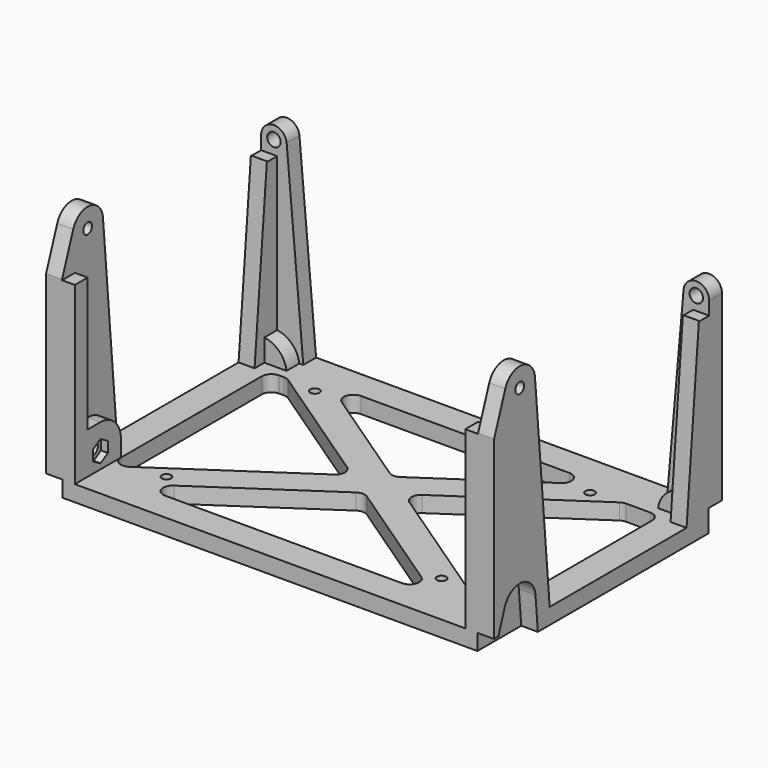
from build123d import *

# Parameters (mm, degrees)
SKETCH_W        = 110
SKETCH_H        = 84
PAD_DEPTH       = 5
SKETCH001_R     = 1.45
HOLE_DEPTH      = 5.001
SKETCH002_W     = 84
SKETCH002_H     = 5
PAD001_DEPTH    = 10
POCKET_DEPTH    = 5.001
SKETCH005_W     = 84
SKETCH005_H     = 5
PAD002_DEPTH    = 5
SKETCH006_W     = 140
SKETCH006_H     = 5
PAD003_DEPTH    = 5
SKETCH007_W     = 5
SKETCH007_H     = 5
PAD004_DEPTH    = 55
PAD005_DEPTH    = 5
SKETCH010_W     = 4
SKETCH010_H     = 55
PAD006_DEPTH    = 5
PAD007_DEPTH    = 4
POCKET001_DEPTH = 5.2
SKETCH012_R     = 1.7
HOLE001_DEPTH   = 504.950312
POCKET002_DEPTH = 2.15
SKETCH014_R     = 1.7
HOLE002_DEPTH   = 371.800312
PAD008_DEPTH    = 5
SKETCH016_R     = 2.1
POCKET003_DEPTH = 5
PAD009_DEPTH    = 5
PAD010_DEPTH    = 5
POCKET004_DEPTH = 5.2
SKETCH020_R     = 1.9
PAD011_DEPTH    = 2.5
SKETCH021_W     = 5
SKETCH021_H     = 4
SKETCH021_W_2   = 4
SKETCH021_H_2   = 5
POCKET005_DEPTH = 0.2


with BuildPart() as part:
    # Sketch → Pad (new body)
    with BuildSketch(Plane.XY):
        Rectangle(SKETCH_W, SKETCH_H)
    extrude(amount=PAD_DEPTH)

    # Sketch001 (on Face6 of Pad) → Hole (cut, through all)
    with BuildSketch(Plane.XY.offset(5)):
        with Locations((-46, 33)):
            Circle(SKETCH001_R)
        with Locations((40, 33)):
            Circle(SKETCH001_R)
        with Locations((40, -25)):
            Circle(SKETCH001_R)
        with Locations((-46, -25)):
            Circle(SKETCH001_R)
    extrude(amount=-HOLE_DEPTH, mode=Mode.SUBTRACT)

    # Sketch002 (on Face2 of Hole) → Pad001 (join)
    with BuildSketch(Plane(origin=(-55, 0, 0), x_dir=(0, -1, 0), z_dir=(-1, 0, 0))):
        with Locations((0, 2.5)):
            Rectangle(SKETCH002_W, SKETCH002_H)
    pad001 = extrude(amount=PAD001_DEPTH)

    # Mirrored: Pad001 across YZ
    add(pad001.mirror(Plane.YZ))

    # Sketch004 → Pocket (cut, through all)
    with BuildSketch(Plane.XY.offset(5)):
        with BuildLine():
            Line((29.552101, 38), (-35.552101, 38))
            ThreePointArc((-35.552101, 38), (-38.421042, 35.877026), (-37.229526, 32.512784))
            Line((-37.229526, 32.512784), (-4.677425, 10.559041))
            ThreePointArc((-4.677425, 10.559041), (-3, 10.046258), (-1.322575, 10.559041))
            Line((31.229526, 32.512784), (-1.322575, 10.559041))
            ThreePointArc((31.229526, 32.512784), (32.421042, 35.877026), (29.552101, 38))
        make_face()
        with BuildLine():
            Line((-54.770474, 33.487216), (-14.735991, 6.487216))
            ThreePointArc((-14.735991, 1.512784), (-13.413416, 4), (-14.735991, 6.487216))
            Line((-14.735991, 1.512784), (-56.322575, -26.533982))
            ThreePointArc((-61, -24.046766), (-59.408497, -26.695565), (-56.322575, -26.533982))
            Line((-61, 31), (-61, -24.046766))
            ThreePointArc((-58, 34), (-60.12132, 33.12132), (-61, 31))
            Line((-58, 34), (-56.447899, 34))
            ThreePointArc((-54.770474, 33.487216), (-55.570873, 33.868941), (-56.447899, 34))
        make_face()
        with BuildLine():
            Line((48.770474, 33.487216), (8.735991, 6.487216))
            ThreePointArc((8.735991, 6.487216), (7.413416, 4), (8.735991, 1.512784))
            Line((8.735991, 1.512784), (56.322575, -30.580494))
            ThreePointArc((56.322575, -30.580494), (59.408497, -30.742077), (61, -28.093277))
            Line((61, 31), (61, -28.093277))
            ThreePointArc((61, 31), (60.12132, 33.12132), (58, 34))
            Line((50.447899, 34), (58, 34))
            ThreePointArc((50.447899, 34), (49.570873, 33.868941), (48.770474, 33.487216))
        make_face()
        with BuildLine():
            Line((-40.000377, -33), (34.000377, -33))
            ThreePointArc((34.000377, -33), (36.869318, -30.877026), (35.677802, -27.512784))
            Line((-1.322575, -2.559041), (35.677802, -27.512784))
            ThreePointArc((-1.322575, -2.559041), (-3, -2.046258), (-4.677425, -2.559041))
            Line((-4.677425, -2.559041), (-41.677802, -27.512784))
            ThreePointArc((-41.677802, -27.512784), (-42.869318, -30.877026), (-40.000377, -33))
        make_face()
    extrude(amount=-POCKET_DEPTH, mode=Mode.SUBTRACT)

    # Sketch005 (on Face8 of Pocket) → Pad002 (join)
    with BuildSketch(Plane(origin=(-65, 0, 0), x_dir=(0, -1, 0), z_dir=(-1, 0, 0))):
        with Locations((0, 2.5)):
            Rectangle(SKETCH005_W, SKETCH005_H)
    pad002 = extrude(amount=PAD002_DEPTH)

    # Mirrored002: Pad002 across YZ
    add(pad002.mirror(Plane.YZ))

    # Sketch006 (on Face16 of Mirrored002) → Pad003 (join)
    with BuildSketch(Plane(origin=(0, 42, 0), x_dir=(-1, 0, 0), z_dir=(0, 1, 0))):
        with Locations((0, 2.5)):
            Rectangle(SKETCH006_W, SKETCH006_H)
    extrude(amount=PAD003_DEPTH)

    # Sketch007 (on Face5 of Pad003) → Pad004 (join)
    with BuildSketch(Plane.XY.offset(5)):
        with Locations((-67.5, -39.5)):
            Rectangle(SKETCH007_W, SKETCH007_H)
        with Locations((-67.5, 44.5)):
            Rectangle(SKETCH007_W, SKETCH007_H)
    pad004 = extrude(amount=PAD004_DEPTH)

    # Mirrored003: Pad004 across Sketch007 V_Axis
    add(pad004.mirror(Plane(origin=(0, 0, 5), x_dir=(0, 0, 1), z_dir=(1, 0, 0))))

    # Sketch008 (on Face64 of Mirrored003) → Pad005 (join)
    with BuildSketch(Plane(origin=(-70, 0, 0), x_dir=(0, -1, 0), z_dir=(-1, 0, 0))):
        with BuildLine():
            ThreePointArc((37.641875, 72.041875), (31.222247, 75.949378), (26.022832, 70.522934))
            Line((26.022832, 70.522934), (20.290318, 5))
            Line((20.290318, 5), (37, 5))
            Line((37, 5), (37, 60))
            Line((42, 60), (37, 60))
            Line((37.641875, 72.041875), (42, 60))
        make_face()
    pad005 = extrude(amount=-PAD005_DEPTH)

    # Sketch010 (on Face47 of Pad005) → Pad006 (join)
    with BuildSketch(Plane.XZ.offset(42)):
        with Locations((-63, 32.5)):
            Rectangle(SKETCH010_W, SKETCH010_H)
    pad006 = extrude(amount=-PAD006_DEPTH)

    # Sketch011 (on Face46 of Pad006) → Pad007 (join)
    with BuildSketch(Plane.YZ.offset(-65)):
        with BuildLine():
            ThreePointArc((-24, 10), (-26.343146, 15.656854), (-32, 18))
            Line((-32, 18), (-37, 18))
            Line((-37, 18), (-37, 5))
            Line((-37, 5), (-24, 5))
            Line((-24, 5), (-24, 10))
        make_face()
    pad007 = extrude(amount=PAD007_DEPTH)

    # Sketch009 (on Face66 of Pad005) → Pocket001 (cut)
    with BuildSketch(Plane(origin=(-70, 0, 0), x_dir=(0, -1, 0), z_dir=(-1, 0, 0))):
        with BuildLine():
            ThreePointArc((37.851734, 12.048708), (31.228555, 16.151819), (25.823593, 10.540366))
            Line((25.823593, 10.540366), (24.90143, 0))
            Line((24.90143, 0), (42, 0))
            Line((42, 0), (42, 0.2))
            Line((42, 5), (42, 0.2))
            Line((42, 5), (40.319507, 5))
            Line((37.851734, 12.048708), (40.319507, 5))
        make_face()
    pocket001 = extrude(amount=-POCKET001_DEPTH, mode=Mode.SUBTRACT)

    # Sketch012 (on Face73 of Pocket001) → Hole001 (cut, through all)
    with BuildSketch(Plane(origin=(-70, 0, 0), x_dir=(0, -1, 0), z_dir=(-1, 0, 0))):
        with Locations((32, 70)):
            Circle(SKETCH012_R)
    hole001 = extrude(amount=-HOLE001_DEPTH, mode=Mode.SUBTRACT)

    # Sketch013 (on Face42 of Hole001) → Pocket002 (cut)
    with BuildSketch(Plane.YZ.offset(-61)):
        Polygon((-32, 13.348632), (-34.9, 11.674316), (-34.9, 8.325684), (-32, 6.651368), (-29.1, 8.325684), (-29.1, 11.674316), align=None)
    pocket002 = extrude(amount=-POCKET002_DEPTH, mode=Mode.SUBTRACT)

    # Sketch014 (on Face97 of Pocket002) → Hole002 (cut, through all)
    with BuildSketch(Plane.YZ.offset(-63.15)):
        with Locations((-32, 10)):
            Circle(SKETCH014_R)
    hole002 = extrude(amount=-HOLE002_DEPTH, mode=Mode.SUBTRACT)

    # Mirrored004: Pad005, Pad006, Pad007, Pocket001, Hole001, Pocket002, Hole002 across YZ
    add(pad005.mirror(Plane.YZ))
    add(pad006.mirror(Plane.YZ))
    add(pad007.mirror(Plane.YZ))
    add(pocket001.mirror(Plane.YZ), mode=Mode.SUBTRACT)
    add(hole001.mirror(Plane.YZ), mode=Mode.SUBTRACT)
    add(pocket002.mirror(Plane.YZ), mode=Mode.SUBTRACT)
    add(hole002.mirror(Plane.YZ), mode=Mode.SUBTRACT)

    # Sketch015 (on Face111 of Mirrored004) → Pad008 (join)
    with BuildSketch(Plane(origin=(0, 47, 0), x_dir=(-1, 0, 0), z_dir=(0, 1, 0))):
        with BuildLine():
            Line((56.82289, 5), (65, 5))
            Line((65, 60), (65, 5))
            Line((65, 60), (70, 60))
            Line((70, 60), (70, 64))
            ThreePointArc((70, 64), (66.174478, 67.996193), (62.015221, 64.348623))
            Line((56.82289, 5), (62.015221, 64.348623))
        make_face()
    pad008 = extrude(amount=-PAD008_DEPTH)

    # Sketch016 (on Face113 of Pad008) → Pocket003 (cut)
    with BuildSketch(Plane(origin=(0, 47, 0), x_dir=(-1, 0, 0), z_dir=(0, 1, 0))):
        with Locations((66, 64)):
            Circle(SKETCH016_R)
    pocket003 = extrude(amount=-POCKET003_DEPTH, mode=Mode.SUBTRACT)

    # Sketch017 (on Face111 of Pocket003) → Pad009 (join)
    with BuildSketch(Plane(origin=(-70, 0, 0), x_dir=(0, -1, 0), z_dir=(-1, 0, 0))):
        Polygon((-42, 60), (-42, 5), (-33.188124, 5), (-38, 60), align=None)
    pad009 = extrude(amount=-PAD009_DEPTH)

    # Sketch018 (on Face73 of Pad009) → Pad010 (join)
    with BuildSketch(Plane.XZ.offset(-42)):
        with BuildLine():
            ThreePointArc((-58.062746, 5), (-60.343146, 9.656854), (-65, 11.937254))
            Line((-65, 11.937254), (-65, 5))
            Line((-65, 5), (-58.062746, 5))
        make_face()
    pad010 = extrude(amount=PAD010_DEPTH)

    # Sketch019 (on Face72 of Pad010) → Pocket004 (cut)
    with BuildSketch(Plane(origin=(0, 47, 0), x_dir=(-1, 0, 0), z_dir=(0, 1, 0))):
        with BuildLine():
            ThreePointArc((69, 6.939388), (64.583672, 7.953987), (61.815982, 4.366054))
            Line((61.815982, 4.366054), (61.434002, 0))
            Line((70, 0), (61.434002, 0))
            Line((70, 6.939388), (70, 0))
            Line((69, 6.939388), (70, 6.939388))
        make_face()
    pocket004 = extrude(amount=-POCKET004_DEPTH, mode=Mode.SUBTRACT)

    # Sketch020 (on Face57 of Pocket004) → Pad011 (join)
    with BuildSketch(Plane(origin=(0, 41.8, 0), x_dir=(-1, 0, 0), z_dir=(0, 1, 0))):
        with Locations((66, 4)):
            Circle(SKETCH020_R)
    pad011 = extrude(amount=PAD011_DEPTH)

    # Mirrored005: Pad008, Pocket003, Pad009, Pad010, Pocket004, Pad011 across YZ
    add(pad008.mirror(Plane.YZ))
    add(pocket003.mirror(Plane.YZ), mode=Mode.SUBTRACT)
    add(pad009.mirror(Plane.YZ))
    add(pad010.mirror(Plane.YZ))
    add(pocket004.mirror(Plane.YZ), mode=Mode.SUBTRACT)
    add(pad011.mirror(Plane.YZ))

    # Sketch021 (on Face139 of Mirrored005) → Pocket005 (cut)
    with BuildSketch(Plane.XY.offset(60)):
        with Locations((-67.5, 40)):
            Rectangle(SKETCH021_W, SKETCH021_H)
        with Locations((-63, -39.5)):
            Rectangle(SKETCH021_W_2, SKETCH021_H_2)
    pocket005 = extrude(amount=-POCKET005_DEPTH, mode=Mode.SUBTRACT)

    # Mirrored006: Pocket005 across YZ
    add(pocket005.mirror(Plane.YZ), mode=Mode.SUBTRACT)


solid = part.part
